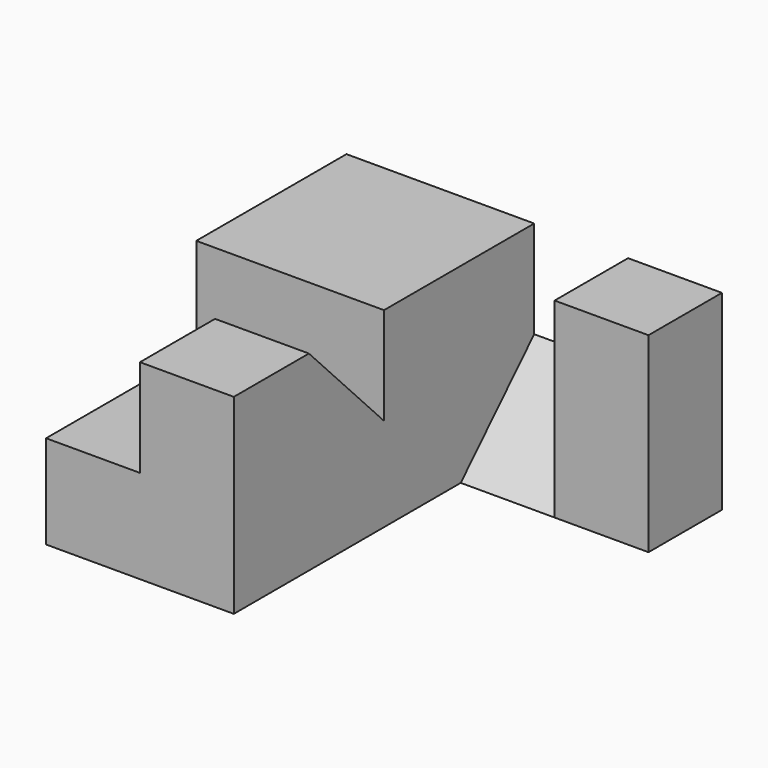
from build123d import *

# Parameters (mm, degrees)
F0_W      = 31.7
F0_H      = 31.7
F1_DEPTH  = 7.9
F3_DEPTH  = 7.901
F4_W      = 7.925
F4_H      = 7.75
F2_W      = 7.925
F2_H      = 7.75
F5_DEPTH  = 8.23
F6_DEPTH  = 8.23
F7_W      = 7.925
F7_H      = 7.75
F8_DEPTH  = 8.23
F10_DEPTH = 7.925
F12_DEPTH = 7.925


with BuildPart() as f1:
    # F0 (on Top) → F1 (new body)
    with BuildSketch(Plane.XY):
        with Locations((15.85, 15.85)):
            Rectangle(F0_W, F0_H)
    extrude(amount=F1_DEPTH)

    # F2 (on face) → F3 (cut, through all)
    with BuildSketch(Plane.XY.offset(7.9)):
        Polygon((15.85, 0), (31.7, 0), (31.7, 23.95), (23.775, 23.95), (15.85, 23.95), align=None)
    extrude(amount=-F3_DEPTH, mode=Mode.SUBTRACT)

    # F4 (on face) + F2 (on face) → F5 (join)
    with BuildSketch(Plane.XY.offset(7.9)):
        with Locations((27.7375, 27.825)):
            Rectangle(F4_W, F4_H)
    with BuildSketch(Plane.XY.offset(7.9)):
        with Locations((27.7375, 27.825)):
            Rectangle(F2_W, F2_H)
    extrude(amount=F5_DEPTH)

    # F2 (on face) → F6 (join)
    with BuildSketch(Plane.XY.offset(7.9)):
        Polygon((0, 0), (15.85, 0), (15.85, 23.95), (23.775, 23.95), (23.775, 31.7), (0, 31.7), align=None)
    extrude(amount=F6_DEPTH)

    # F7 (on face) → F8 (cut)
    with BuildSketch(Plane.XY.offset(16.13)):
        with Locations((19.8125, 27.825)):
            Rectangle(F7_W, F7_H)
        Polygon((0, 0), (7.925, 0), (7.925, 7.925), (15.85, 7.925), (15.85, 15.85), (0, 15.85), align=None)
    extrude(amount=-F8_DEPTH, mode=Mode.SUBTRACT)

    # F9 (on face) → F10 (join, through all)
    with BuildSketch(Plane.YZ.offset(15.85)):
        Polygon((15.85, 7.9), (7.925, 16.13), (7.925, 7.9), align=None)
    extrude(amount=-F10_DEPTH)

    # F11 (on face) → F12 (cut, through all)
    with BuildSketch(Plane.YZ.offset(15.85)):
        Polygon((23.95, 0), (31.7, 7.9), (23.95, 7.9), align=None)
    extrude(amount=F12_DEPTH, mode=Mode.SUBTRACT)


solid = f1.part
